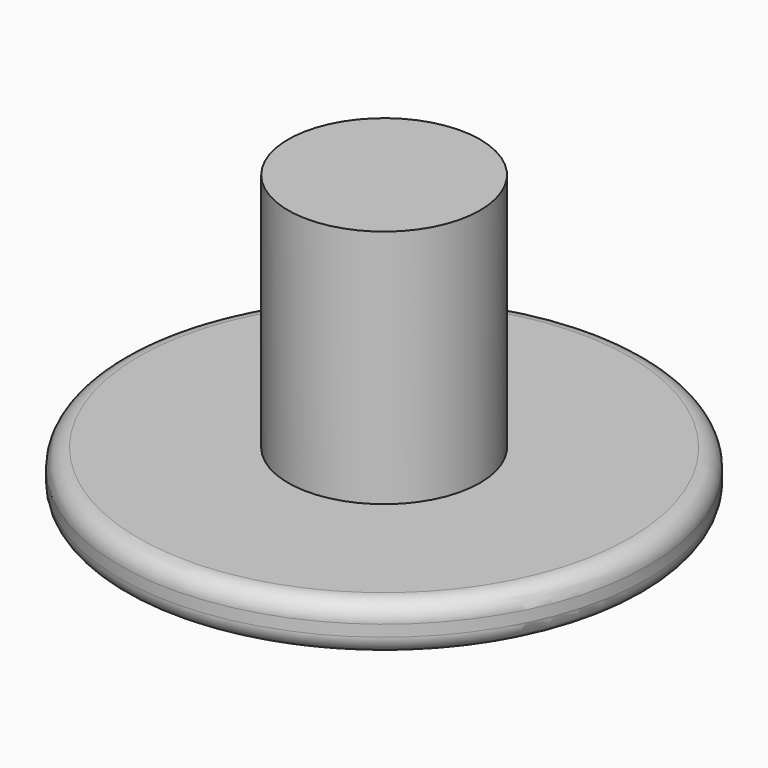
from build123d import *

# Parameters (mm, degrees)
F0_R     = 11
F1_DEPTH = 2
F2_R     = 4.0005
F3_DEPTH = 12
F4_R     = 0.762


with BuildPart() as f1:
    # F0 (on Top) → F1 (new body)
    with BuildSketch(Plane.XY):
        Circle(F0_R)
    extrude(amount=F1_DEPTH)

    # F2 (on Top) → F3 (join)
    with BuildSketch(Plane.XY):
        Circle(F2_R)
    extrude(amount=F3_DEPTH)

    # F4
    f4_edges = [f1.edges().sort_by_distance(p)[0] for p in [
        (-11, 0, 2),
        (11, 0, 1),
        (-11, 0, 0),
    ]]
    fillet(f4_edges, radius=F4_R)


solid = f1.part
